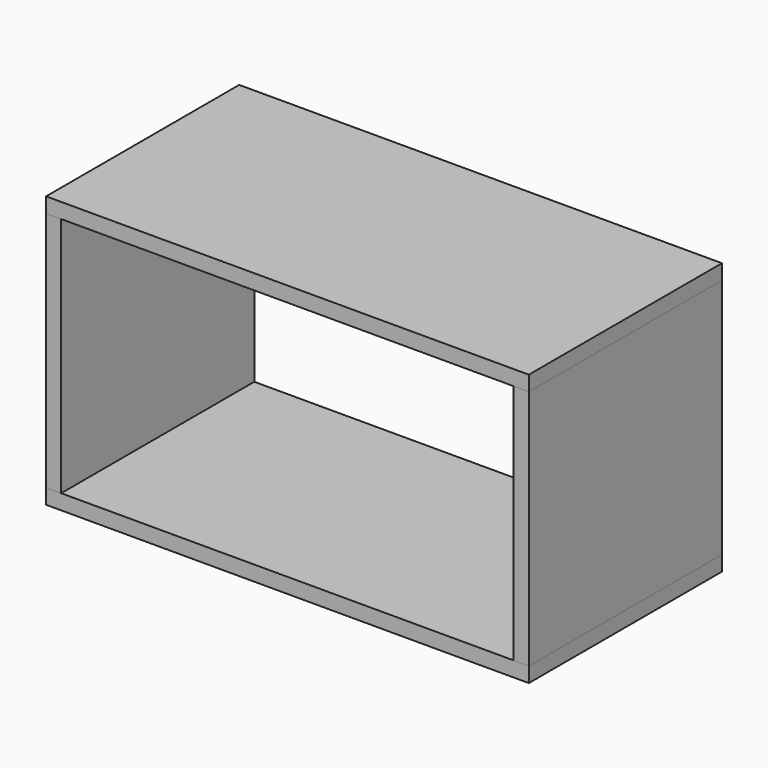
from build123d import *

# Parameters (mm, degrees)
F1_DEPTH      = 50.8
F2_DEPTH      = 50.8
F2_DEPTH_BACK = 50.8


with BuildPart() as f1:
    # F0 (on Front) → F1 (new body, symmetric)
    with BuildSketch(Plane.XZ):
        Polygon((-101.6, 114.3), (-101.6, 107.95), (-95.25, 107.95), (95.25, 107.95), (101.6, 107.95), (101.6, 114.3), align=None)
        Polygon((-101.6, 6.35), (-101.6, 0), (101.6, 0), (101.6, 6.35), (95.25, 6.35), (-95.25, 6.35), align=None)
    extrude(amount=F1_DEPTH, both=True)


with BuildPart() as f2:
    # F0 (on Front) → F2 (new body, two sides)
    with BuildSketch(Plane.XZ) as f2_sk:
        Polygon((-101.6, 107.95), (-101.6, 6.35), (-95.25, 6.35), (-95.25, 57.15), (-95.25, 107.95), align=None)
        Polygon((95.25, 6.35), (101.6, 6.35), (101.6, 107.95), (95.25, 107.95), (95.25, 57.15), align=None)
    extrude(amount=F2_DEPTH)
    extrude(f2_sk.sketch, amount=-F2_DEPTH_BACK)


solid = Compound([f1.part, f2.part])
